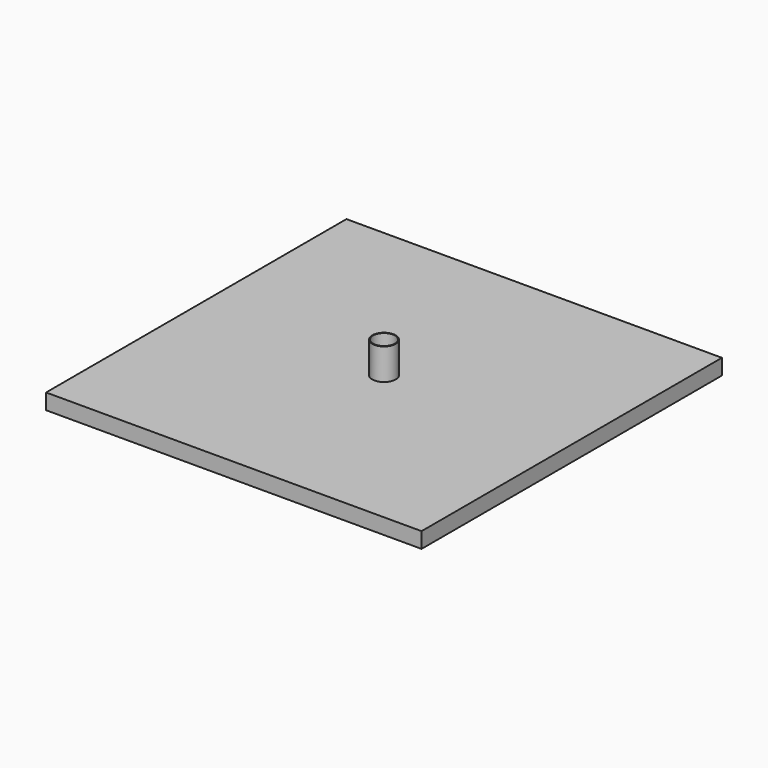
from build123d import *

# Parameters (mm, degrees)
F0_W     = 304.8
F0_H     = 304.8
F1_DEPTH = 12.7
F2_R     = 9.525
F3_DEPTH = 12.7
F4_W     = 9.525
F4_H     = 38.1
F6_R     = 8.89
F7_DEPTH = 38.101


with BuildPart() as f1:
    # F0 (on Top) → F1 (new body)
    with BuildSketch(Plane.XY):
        Rectangle(F0_W, F0_H)
    extrude(amount=F1_DEPTH)

    # F2 (on Top) → F3 (cut, symmetric)
    with BuildSketch(Plane.XY):
        Circle(F2_R)
    extrude(amount=F3_DEPTH, both=True, mode=Mode.SUBTRACT)

    # F4 (on Front) → F5 (revolve)
    with BuildSketch(Plane.XZ):
        with Locations((4.7625, 19.05)):
            Rectangle(F4_W, F4_H)
    revolve(axis=Axis((0, 0, 19.05), (0, 0, 1)))

    # F6 (on Top) → F7 (cut, through all)
    with BuildSketch(Plane.XY):
        Circle(F6_R)
    extrude(amount=F7_DEPTH, mode=Mode.SUBTRACT)


solid = f1.part
